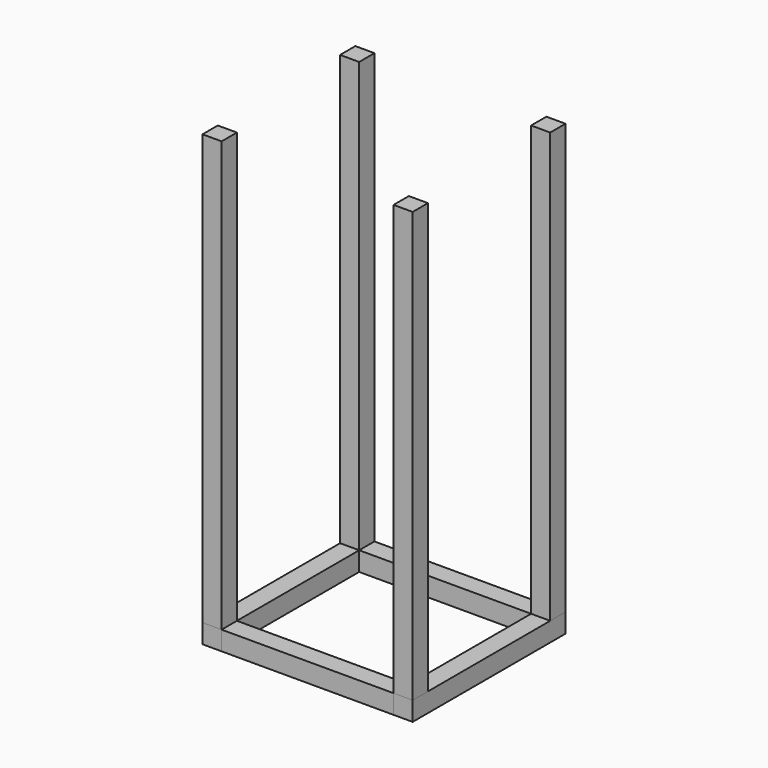
from build123d import *

# Parameters (mm, degrees)
F0_W     = 40
F0_H     = 40
F1_DEPTH = 900
F0_H_2   = 320
F2_DEPTH = 40
F0_W_2   = 360
F3_DEPTH = 40


with BuildPart() as f1:
    # F0 (on Top) → F1 (new body)
    with BuildSketch(Plane.XY):
        with Locations((-20, 20)):
            Rectangle(F0_W, F0_H)
        with Locations((-20, 380)):
            Rectangle(F0_W, F0_H)
        with Locations((-420, 20)):
            Rectangle(F0_W, F0_H)
        with Locations((-420, 380)):
            Rectangle(F0_W, F0_H)
    extrude(amount=F1_DEPTH)


with BuildPart() as f2:
    # F0 (on Top) → F2 (new body)
    with BuildSketch(Plane.XY):
        with Locations((-420, 20)):
            Rectangle(F0_W, F0_H)
        with Locations((-420, 200)):
            Rectangle(F0_W, F0_H_2)
        with Locations((-420, 380)):
            Rectangle(F0_W, F0_H)
        with Locations((-20, 20)):
            Rectangle(F0_W, F0_H)
        with Locations((-20, 200)):
            Rectangle(F0_W, F0_H_2)
        with Locations((-20, 380)):
            Rectangle(F0_W, F0_H)
    extrude(amount=-F2_DEPTH)


with BuildPart() as f3:
    # F0 (on Top) → F3 (new body)
    with BuildSketch(Plane.XY):
        with Locations((-220, 20)):
            Rectangle(F0_W_2, F0_H)
        with Locations((-220, 380)):
            Rectangle(F0_W_2, F0_H)
    extrude(amount=-F3_DEPTH)


solid = Compound([f1.part, f2.part, f3.part])
